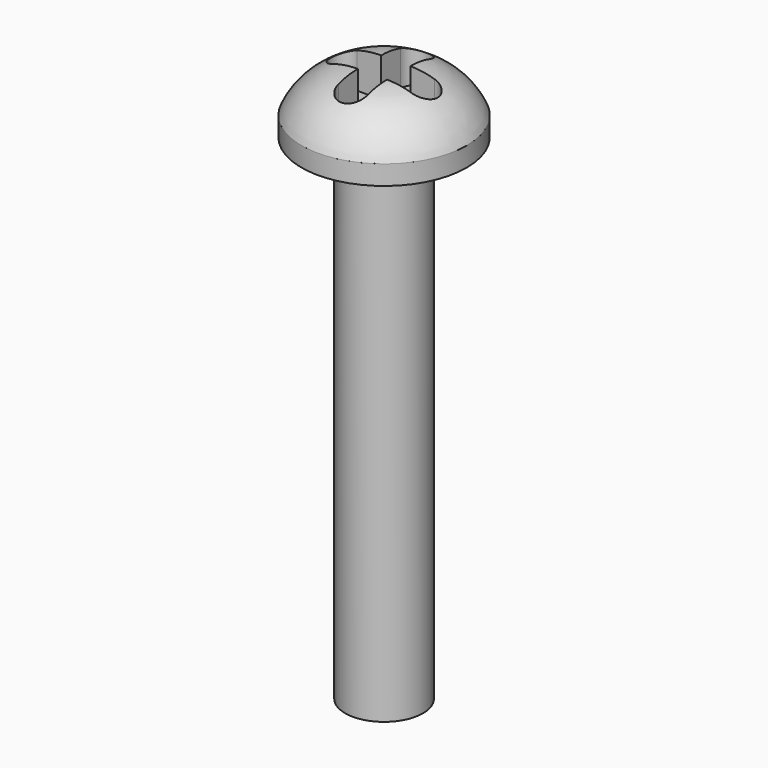
from build123d import *

# Parameters (mm, degrees)
POCKET005_DEPTH = 1
SKETCH016_R     = 1
PAD006_DEPTH    = 12.7


with BuildPart() as part:
    # Sketch014 → Revolution002 (revolve)
    with BuildSketch(Plane.XZ):
        with BuildLine():
            Line((0, 0), (0, 1.5748))
            Line((0, 1.5748), (0.5, 1.5748))
            ThreePointArc((2.1209, 0.5), (1.472434, 1.281687), (0.5, 1.5748))
            Line((2.1209, 0.5), (2.1209, 0))
            Line((2.1209, 0), (0, 0))
        make_face()
    revolve(axis=Axis((0, 0, 0), (0, 0, 1)))

    # Sketch015 (on Face1 of Revolution002) → Pocket005 (cut)
    with BuildSketch(Plane(origin=(0, 0, 1.5748), x_dir=(-1, 0, 0), z_dir=(0, 0, 1))):
        with BuildLine():
            ThreePointArc((0.375, 1), (0, 1.375), (-0.375, 1))
            Line((-0.375, 1), (-0.375, 0.375))
            Line((-0.375, 0.375), (-1, 0.375))
            ThreePointArc((-1, 0.375), (-1.375, 0), (-1, -0.375))
            Line((-1, -0.375), (-0.375, -0.375))
            Line((-0.375, -0.375), (-0.375, -1))
            ThreePointArc((-0.375, -1), (0, -1.375), (0.375, -1))
            Line((0.375, -1), (0.375, -0.375))
            Line((0.375, -0.375), (1, -0.375))
            ThreePointArc((1, -0.375), (1.375, 0), (1, 0.375))
            Line((1, 0.375), (0.375, 0.375))
            Line((0.375, 0.375), (0.375, 1))
        make_face()
    extrude(amount=-POCKET005_DEPTH, mode=Mode.SUBTRACT)

    # Sketch016 (on Face16 of Pocket005) → Pad006 (join)
    with BuildSketch(Plane(origin=(0, 0, 0), x_dir=(1, 0, 0), z_dir=(0, 0, -1))):
        Circle(SKETCH016_R)
    extrude(amount=PAD006_DEPTH)


with BuildPart() as part_1:
    # Body004 placement: moved
    add(part.part.moved(Location((-14, -7, 7.75))))


solid = part_1.part
